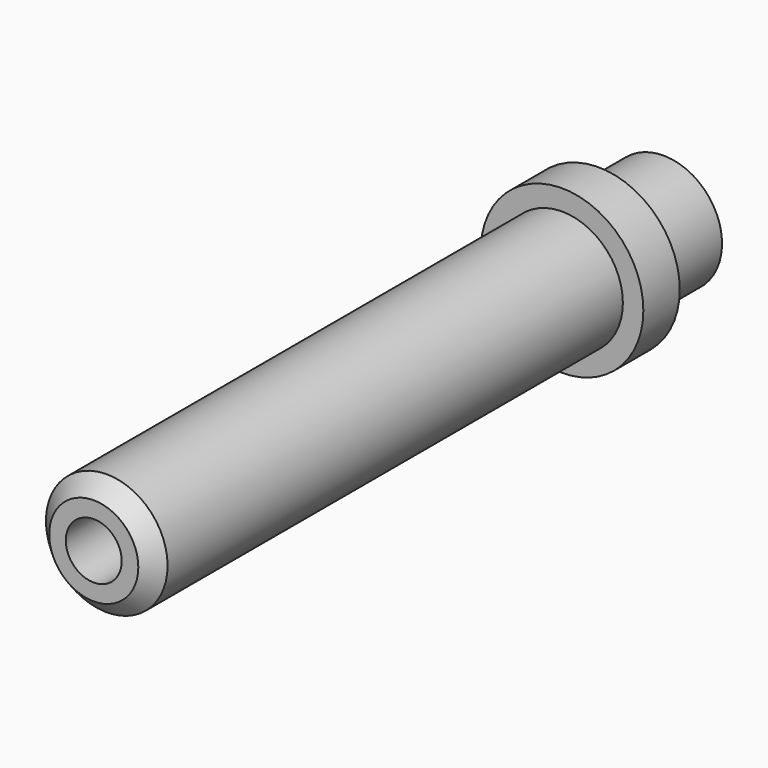
from build123d import *

# Parameters (mm, degrees)
F0_R     = 3.175
F1_DEPTH = 1.778
F2_R     = 2.3749
F3_DEPTH = 22.86
F4_R     = 2.286
F5_DEPTH = 3.175
F6_R     = 1.0922
F7_DEPTH = 27.814
F8_SIZE  = 0.635


with BuildPart() as f1:
    # F0 (on Front) → F1 (new body)
    with BuildSketch(Plane.XZ):
        Circle(F0_R)
    extrude(amount=F1_DEPTH)

    # F2 (on face) → F3 (join)
    with BuildSketch(Plane.XZ.offset(1.778)):
        Circle(F2_R)
    extrude(amount=F3_DEPTH)

    # F4 (on face) → F5 (join)
    with BuildSketch(Plane(origin=(0, 0, 0), x_dir=(-1, 0, 0), z_dir=(0, 1, 0))):
        Circle(F4_R)
    extrude(amount=F5_DEPTH)

    # F6 (on face) → F7 (cut, through all)
    with BuildSketch(Plane.XZ.offset(24.638)):
        Circle(F6_R)
    extrude(amount=-F7_DEPTH, mode=Mode.SUBTRACT)

    # F8
    f8_edges = [f1.edges().sort_by_distance(p)[0] for p in [
        (-2.3749, -24.638, 0),
    ]]
    chamfer(f8_edges, length=F8_SIZE)


solid = f1.part
